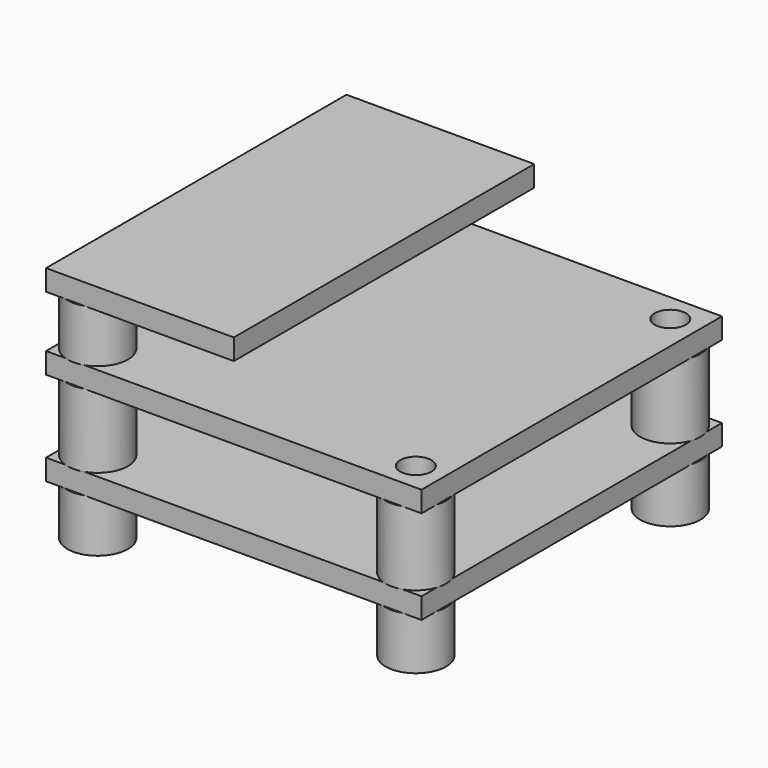
from build123d import *

# Parameters (mm, degrees)
SKETCH_W      = 36
SKETCH_H      = 36
SKETCH_R      = 1.5
PAD_DEPTH     = 2
SKETCH001_R   = 2.9
SKETCH001_R_2 = 1.5
PAD001_DEPTH  = 7
SKETCH002_W   = 36
SKETCH002_H   = 36
SKETCH002_R   = 1.5
PAD002_DEPTH  = 2
SKETCH003_R   = 2.9
SKETCH003_R_2 = 1.5
PAD003_DEPTH  = 5
SKETCH004_W   = 18
SKETCH004_H   = 36
PAD004_DEPTH  = 2
SKETCH005_R   = 2.9
SKETCH005_R_2 = 1.5
PAD005_DEPTH  = 5


with BuildPart() as part:
    # Sketch → Pad (new body)
    with BuildSketch(Plane.XY):
        Rectangle(SKETCH_W, SKETCH_H)
        with Locations((-15.25, -15.25)):
            Circle(SKETCH_R, mode=Mode.SUBTRACT)
        with Locations((15.25, -15.25)):
            Circle(SKETCH_R, mode=Mode.SUBTRACT)
        with Locations((-15.25, 15.25)):
            Circle(SKETCH_R, mode=Mode.SUBTRACT)
        with Locations((15.25, 15.25)):
            Circle(SKETCH_R, mode=Mode.SUBTRACT)
    extrude(amount=PAD_DEPTH)

    # Sketch001 (on Face10 of Pad) → Pad001 (join)
    with BuildSketch(Plane.XY.offset(2)):
        with Locations((-15.25, 15.25)):
            Circle(SKETCH001_R)
        with Locations((-15.25, 15.25)):
            Circle(SKETCH001_R_2, mode=Mode.SUBTRACT)
        with Locations((-15.25, -15.25)):
            Circle(SKETCH001_R)
        with Locations((-15.25, -15.25)):
            Circle(SKETCH001_R_2, mode=Mode.SUBTRACT)
        with Locations((15.25, -15.25)):
            Circle(SKETCH001_R)
        with Locations((15.25, -15.25)):
            Circle(SKETCH001_R_2, mode=Mode.SUBTRACT)
        with Locations((15.25, 15.25)):
            Circle(SKETCH001_R)
        with Locations((15.25, 15.25)):
            Circle(SKETCH001_R_2, mode=Mode.SUBTRACT)
    extrude(amount=PAD001_DEPTH)

    # Sketch002 (on Face31 of Pad001) → Pad002 (join)
    with BuildSketch(Plane.XY.offset(9)):
        Rectangle(SKETCH002_W, SKETCH002_H)
        with Locations((-15.25, 15.25)):
            Circle(SKETCH002_R, mode=Mode.SUBTRACT)
        with Locations((15.25, 15.25)):
            Circle(SKETCH002_R, mode=Mode.SUBTRACT)
        with Locations((15.25, -15.25)):
            Circle(SKETCH002_R, mode=Mode.SUBTRACT)
        with Locations((-15.25, -15.25)):
            Circle(SKETCH002_R, mode=Mode.SUBTRACT)
    extrude(amount=PAD002_DEPTH)

    # Sketch003 (on Face52 of Pad002) → Pad003 (join)
    with BuildSketch(Plane.XY.offset(11)):
        with Locations((-15.25, 15.25)):
            Circle(SKETCH003_R)
        with Locations((-15.25, 15.25)):
            Circle(SKETCH003_R_2, mode=Mode.SUBTRACT)
        with Locations((-15.25, -15.25)):
            Circle(SKETCH003_R)
        with Locations((-15.25, -15.25)):
            Circle(SKETCH003_R_2, mode=Mode.SUBTRACT)
    extrude(amount=PAD003_DEPTH)

    # Sketch004 (on Face63 of Pad003) → Pad004 (join)
    with BuildSketch(Plane.XY.offset(16)):
        with Locations((-9, 0)):
            Rectangle(SKETCH004_W, SKETCH004_H)
    extrude(amount=PAD004_DEPTH)

    # Sketch005 (on Face4 of Pad004) → Pad005 (join)
    with BuildSketch(Plane(origin=(0, 0, 0), x_dir=(1, 0, 0), z_dir=(0, 0, -1))):
        with Locations((-15.25, 15.25)):
            Circle(SKETCH005_R)
        with Locations((-15.25, 15.25)):
            Circle(SKETCH005_R_2, mode=Mode.SUBTRACT)
        with Locations((-15.25, -15.25)):
            Circle(SKETCH005_R)
        with Locations((-15.25, -15.25)):
            Circle(SKETCH005_R_2, mode=Mode.SUBTRACT)
        with Locations((15.25, -15.25)):
            Circle(SKETCH005_R)
        with Locations((15.25, -15.25)):
            Circle(SKETCH005_R_2, mode=Mode.SUBTRACT)
        with Locations((15.25, 15.25)):
            Circle(SKETCH005_R)
        with Locations((15.25, 15.25)):
            Circle(SKETCH005_R_2, mode=Mode.SUBTRACT)
    extrude(amount=PAD005_DEPTH)


solid = part.part
